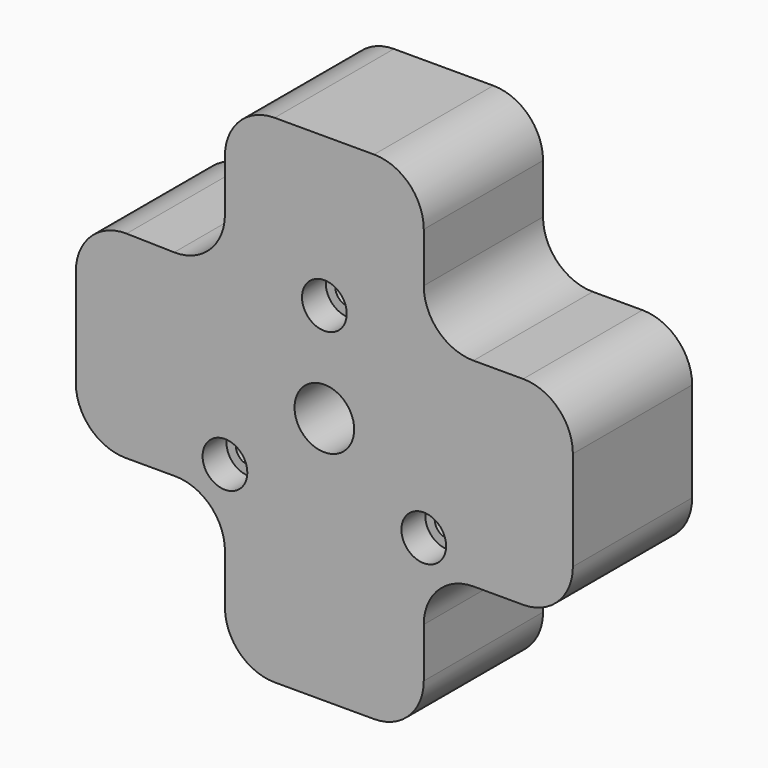
from build123d import *

# Parameters (mm, degrees)
F2_DEPTH = 30
F0_R     = 2.6
F0_R_2   = 6
F3_DEPTH = 50
F4_R     = 4.5
F5_DEPTH = 6
F6_W     = 30
F6_H     = 30
F7_DEPTH = 50
F8_R     = 10


with BuildPart() as f2:
    # F1 (on Front) → F2 (new body)
    with BuildSketch(Plane.XZ):
        Polygon((-50, 4.6410161514), (-50, -35.3589838486), (50, -35.3589838486), (50, 4.6410161514), (50, 24.6410161514), (50, 64.6410161514), (-50, 64.6410161514), (-50, 24.6410161514), align=None)
    extrude(amount=F2_DEPTH)

    # F0 (on Front) → F3 (cut)
    with BuildSketch(Plane.XZ):
        with Locations((0, 34.6410161514)):
            Circle(F0_R)
        with Locations((-20, 0)):
            Circle(F0_R)
        with Locations((20, 0)):
            Circle(F0_R)
        with Locations((0, 14.6410161514)):
            Circle(F0_R_2)
    extrude(amount=F3_DEPTH, mode=Mode.SUBTRACT)

    # F4 (on face) → F5 (cut)
    with BuildSketch(Plane.XZ.offset(30)):
        with Locations((0, 34.6410161514)):
            Circle(F4_R)
        with Locations((20, 0)):
            Circle(F4_R)
        with Locations((-20, 0)):
            Circle(F4_R)
    extrude(amount=-F5_DEPTH, mode=Mode.SUBTRACT)

    # F6 (on face) → F7 (cut)
    with BuildSketch(Plane(origin=(0, 0, 0), x_dir=(-1, 0, 0), z_dir=(0, 1, 0))):
        with Locations((-35, 49.6410161514)):
            Rectangle(F6_W, F6_H)
        with Locations((-35, -20.3589838486)):
            Rectangle(F6_W, F6_H)
        with Locations((35, -20.3589838486)):
            Rectangle(F6_W, F6_H)
        Polygon((50, 64.6410161514), (20.0062222363, 64.6410161514), (20.0062222363, 34.0300370508), (50, 34.6410161514), align=None)
    extrude(amount=-F7_DEPTH, mode=Mode.SUBTRACT)

    # F8
    f8_edges = [f2.edges().sort_by_distance(p)[0] for p in [
        (-20.006222, -15, 64.641016),
        (-20.006222, -15, 34.030037),
        (-50, -15, 34.641016),
        (-50, -15, -5.358984),
        (-20, -15, -5.358984),
        (-20, -15, -35.358984),
        (20, -15, -35.358984),
        (20, -15, -5.358984),
        (50, -15, -5.358984),
        (20, -15, 64.641016),
        (20, -15, 34.641016),
        (50, -15, 34.641016),
    ]]
    fillet(f8_edges, radius=F8_R)


solid = f2.part
